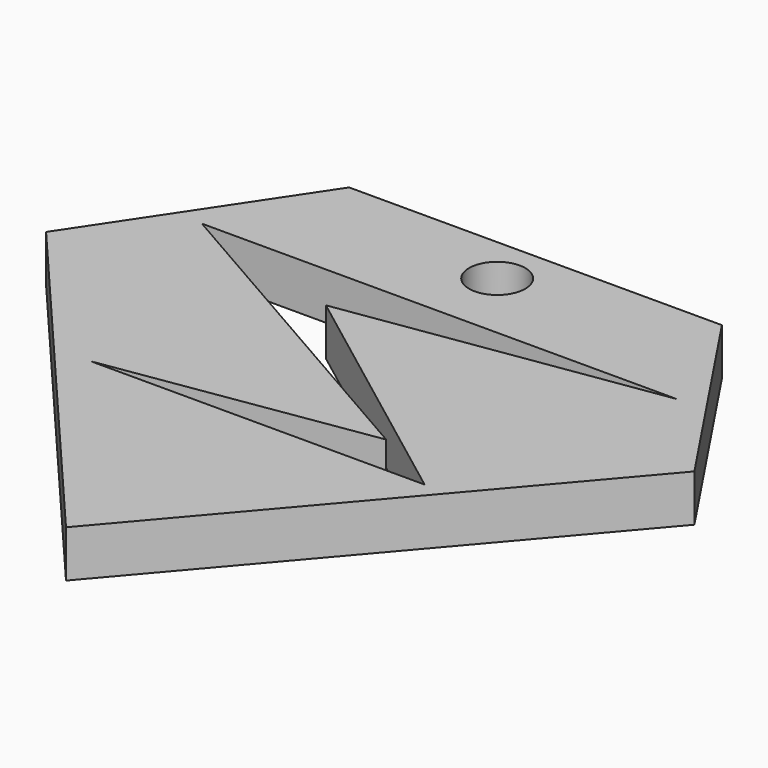
from build123d import *

# Parameters (mm, degrees)
F0_R     = 2.394982
F1_DEPTH = 4


with BuildPart() as f1:
    # F0 (on Top) → F1 (new body)
    with BuildSketch(Plane.XY):
        Polygon((15.887154, 30.306818), (0, 30.306818), (-15.887154, 30.306818), (-27.627056, 12.696962), (0, -19.715384), (27.627056, 12.696962), align=None)
        Polygon((-11.82401, 20.10967), (20.203725, 20.10967), (-6.479778, 16.072022), (14.793159, 0), (-13.662403, 0), (8.746403, 3.467453), (-11.82401, 15.263353), (-20.275315, 20.10967), align=None, mode=Mode.SUBTRACT)
        with Locations((0, 26.223373)):
            Circle(F0_R, mode=Mode.SUBTRACT)
    extrude(amount=F1_DEPTH)


solid = f1.part
